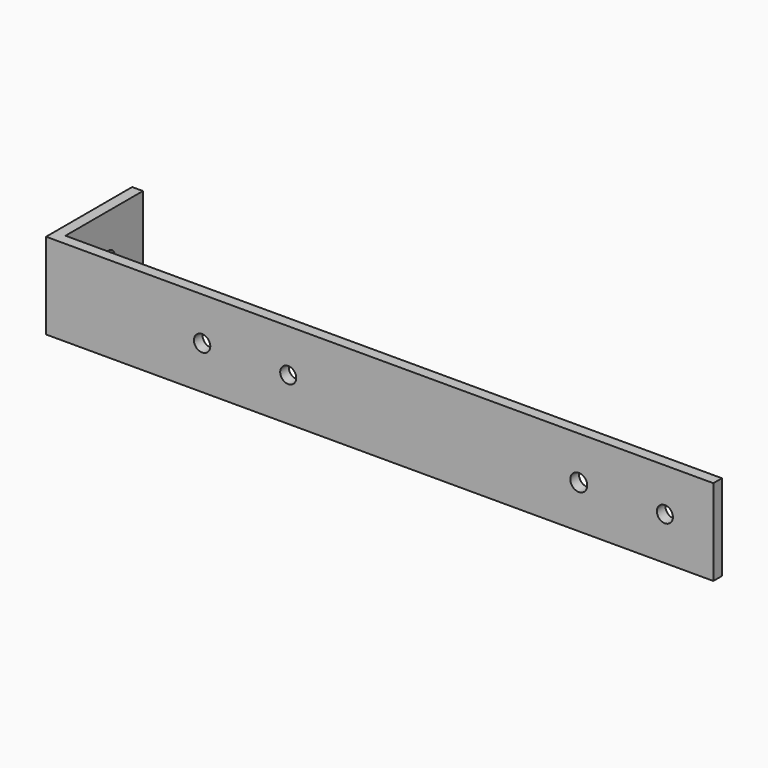
from build123d import *

# Parameters (mm, degrees)
F1_DEPTH = 25.4
F2_R     = 4.7625
F3_DEPTH = 6.351
F4_R     = 4.739103
F4_R_2   = 5.002197
F4_R_3   = 4.826
F5_DEPTH = 6.351


with BuildPart() as f1:
    # F0 (on Top) → F1 (new body, symmetric)
    with BuildSketch(Plane.XY):
        Polygon((0, 0), (393.7, 0), (393.7, 6.35), (6.35, 6.35), (6.35, 63.5), (0, 63.5), align=None)
    extrude(amount=F1_DEPTH, both=True)

    # F2 (on face) → F3 (cut, through all)
    with BuildSketch(Plane.YZ.offset(6.35)):
        with Locations((38.1, 0)):
            Circle(F2_R)
    extrude(amount=-F3_DEPTH, mode=Mode.SUBTRACT)

    # F4 (on face) → F5 (cut, through all)
    with BuildSketch(Plane(origin=(0, 6.35, 0), x_dir=(-1, 0, 0), z_dir=(0, 1, 0))):
        with Locations((-365.125, 0)):
            Circle(F4_R)
        with Locations((-314.325, 0)):
            Circle(F4_R_2)
        with Locations((-142.875, 0)):
            Circle(F4_R)
        with Locations((-92.075, 0)):
            Circle(F4_R_3)
    extrude(amount=-F5_DEPTH, mode=Mode.SUBTRACT)


solid = f1.part
